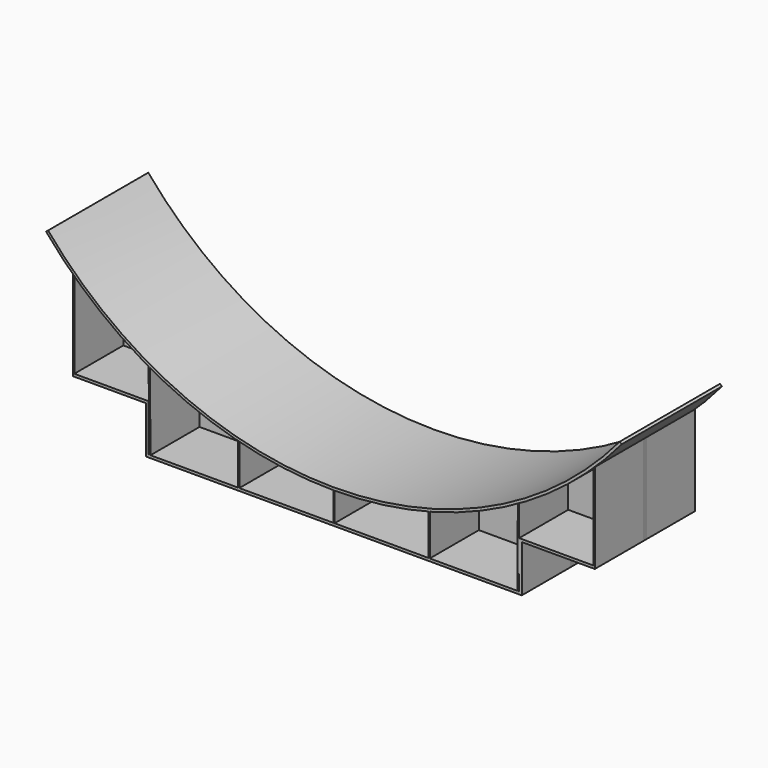
from build123d import *

# Parameters (mm, degrees)
F1_DEPTH  = 609.6
F4_DEPTH  = 609.6
F6_DEPTH  = 609.6
F11_DEPTH = 12.7


with BuildPart() as f1:
    # F0 (on Front) → F1 (new body)
    with BuildSketch(Plane.XZ):
        Polygon((-914.4, 0), (0, 0), (0, 12.7), (-901.7, 12.7), (-901.7, 241.3), (-914.4, 241.3), (-1270, 241.3), (-1270, 228.6), (-914.4, 228.6), (-914.4, 12.7), align=None)
    extrude(amount=-F1_DEPTH)

    # F2: F1 across plane


with BuildPart() as f1_1:
    add(f1.part)
    add(f1.part.mirror(Plane.YZ))

    # F5 (on Front) → F6 (join)
    with BuildSketch(Plane.XZ):
        with BuildLine():
            ThreePointArc((-1263.65, 659.194660563), (-1266.8286703963, 662.2403494185), (-1270, 665.293681146))
            Line((-1270, 665.293681146), (-1270, 241.3))
            Line((-1270, 241.3), (-1263.65, 241.3))
            Line((-1263.65, 241.3), (-1263.65, 659.194660563))
        make_face()
        with BuildLine():
            Line((-460.375, 0), (-460.375, 211.2948332255))
            ThreePointArc((-460.375, 211.2948332255), (-463.5507465555, 212.1239288917), (-466.725, 212.9587228053))
            Line((-466.725, 212.9587228053), (-466.725, 0))
            Line((-466.725, 0), (-460.375, 0))
        make_face()
        with BuildLine():
            Line((-3.175, 0), (0, 0))
            Line((0, 0), (0, 152.4))
            ThreePointArc((0, 152.4), (-1.5875005981, 152.4006890197), (-3.175, 152.4027560785))
            Line((-3.175, 152.4027560785), (-3.175, 0))
        make_face()
        with BuildLine():
            Line((-892.81, 0), (-895.3264602776, 386.5527131284))
            ThreePointArc((-895.3264602776, 386.5527131284), (-898.5150283714, 388.3471556384), (-901.7, 390.1479738236))
            Line((-901.7, 390.1479738236), (-899.1601345556, 0))
            Line((-899.1601345556, 0), (-892.81, 0))
        make_face()
    extrude(amount=-F6_DEPTH)


with BuildPart() as f4:
    # F3 (on Front) → F4 (new body)
    with BuildSketch(Plane.XZ):
        with BuildLine():
            Line((-1391.2133131484, 813.8334220483), (-1400.942077576, 805.6700194053))
            ThreePointArc((-1400.942077576, 805.6700194053), (0, 152.4), (1400.942077576, 805.6700194053))
            Line((1400.942077576, 805.6700194053), (1391.2133131484, 813.8334220483))
            ThreePointArc((1391.2133131484, 813.8334220483), (767.5170251473, 335.2544279627), (0, 165.1))
            ThreePointArc((0, 165.1), (-767.5170251473, 335.2544279627), (-1391.2133131484, 813.8334220483))
        make_face()
    extrude(amount=-F4_DEPTH)


with BuildPart() as f7_1:
    # F7: instance of F1
    add(f1_1.part.mirror(Plane.YZ))


with BuildPart() as f11:
    # F10 (on offset) → F11 (new body)
    with BuildSketch(Plane.XZ.offset(-298.45)):
        with BuildLine():
            Line((-914.4, 228.6), (-914.4, 0))
            Line((-914.4, 0), (914.4, 0))
            Line((914.4, 0), (914.4, 228.6))
            Line((914.4, 228.6), (1270, 228.6))
            Line((1270, 228.6), (1270, 663.5292501918))
            ThreePointArc((1270, 663.5292501918), (0, 151.13), (-1270, 663.5292501918))
            Line((-1270, 663.5292501918), (-1270, 228.6))
            Line((-1270, 228.6), (-914.4, 228.6))
        make_face()
    extrude(amount=-F11_DEPTH)


solid = Compound([f1_1.part, f4.part, f7_1.part, f11.part])
